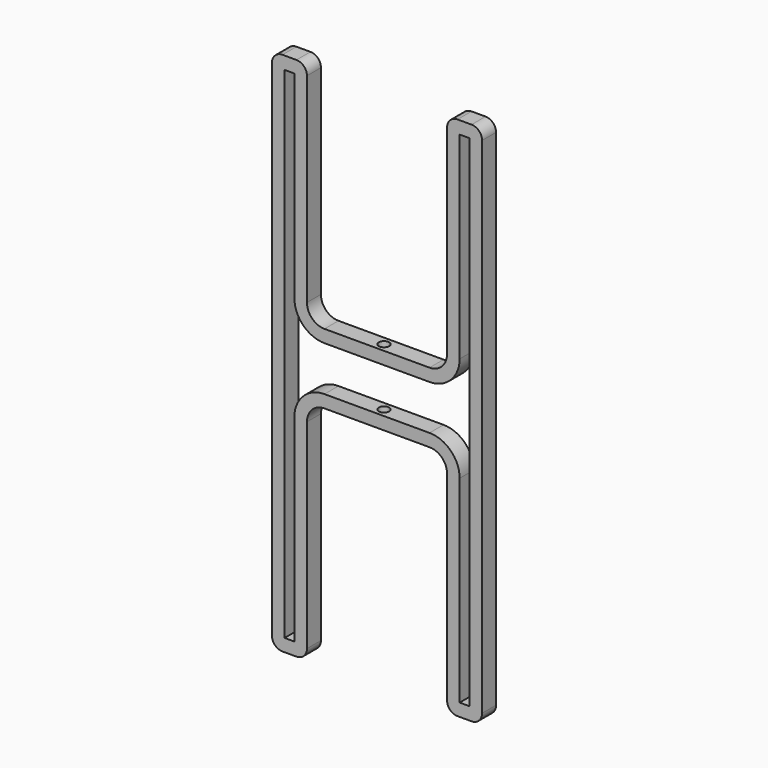
from build123d import *

# Parameters (mm, degrees)
F1_DEPTH = 5
F2_R     = 1.5
F3_DEPTH = 25


with BuildPart() as f1:
    # F0 (on Front) → F1 (new body)
    with BuildSketch(Plane.XZ):
        with BuildLine():
            Line((-23, 75), (-27, 75))
            ThreePointArc((-27, 75), (-29.12132, 74.12132), (-30, 72))
            Line((-30, 72), (-30, -72))
            ThreePointArc((-30, -72), (-29.12132, -74.12132), (-27, -75))
            Line((-27, -75), (-23, -75))
            ThreePointArc((-23, -75), (-20.87868, -74.12132), (-20, -72))
            Line((-20, -72), (-20, -15))
            ThreePointArc((-20, -15), (-18.535534, -11.464466), (-15, -10))
            Line((-15, -10), (15, -10))
            ThreePointArc((15, -10), (18.535534, -11.464466), (20, -15))
            Line((20, -15), (20, -72))
            ThreePointArc((20, -72), (20.87868, -74.12132), (23, -75))
            Line((23, -75), (27, -75))
            ThreePointArc((27, -75), (29.12132, -74.12132), (30, -72))
            Line((30, -72), (30, 72))
            ThreePointArc((30, 72), (29.12132, 74.12132), (27, 75))
            Line((27, 75), (23, 75))
            ThreePointArc((23, 75), (20.87868, 74.12132), (20, 72))
            Line((20, 72), (20, 15))
            ThreePointArc((20, 15), (18.535534, 11.464466), (15, 10))
            Line((15, 10), (-15, 10))
            ThreePointArc((-15, 10), (-18.535534, 11.464466), (-20, 15))
            Line((-20, 15), (-20, 72))
            ThreePointArc((-20, 72), (-20.87868, 74.12132), (-23, 75))
        make_face()
        with BuildLine():
            Line((-23.600001, -71.399999), (-26.399999, -71.399999))
            Line((-26.399999, -71.399999), (-26.399999, 71.399999))
            Line((-26.399999, 71.399999), (-23.600001, 71.399999))
            Line((-23.600001, 71.399999), (-23.600001, 15))
            ThreePointArc((-23.600001, 15), (-21.081119, 8.918881), (-15, 6.399999))
            Line((-15, 6.399999), (15, 6.399999))
            ThreePointArc((15, 6.399999), (21.081119, 8.918881), (23.600001, 15))
            Line((23.600001, 15), (23.600001, 71.399999))
            Line((23.600001, 71.399999), (26.399999, 71.399999))
            Line((26.399999, 71.399999), (26.399999, -71.399999))
            Line((26.399999, -71.399999), (23.600001, -71.399999))
            Line((23.600001, -71.399999), (23.600001, -15))
            ThreePointArc((23.600001, -15), (21.081119, -8.918881), (15, -6.399999))
            Line((15, -6.399999), (-15, -6.399999))
            ThreePointArc((-15, -6.399999), (-21.081119, -8.918881), (-23.600001, -15))
            Line((-23.600001, -15), (-23.600001, -71.399999))
        make_face(mode=Mode.SUBTRACT)
    extrude(amount=F1_DEPTH)

    # F2 (on face) → F3 (cut)
    with BuildSketch(Plane.XY.offset(10)):
        with Locations((0, -2.50134)):
            Circle(F2_R)
    extrude(amount=-F3_DEPTH, mode=Mode.SUBTRACT)


solid = f1.part
